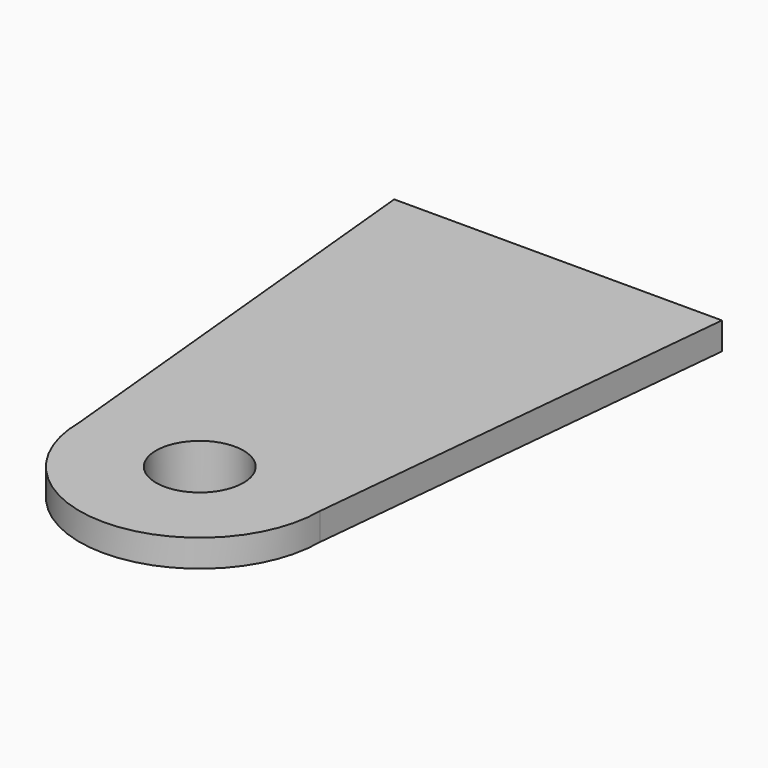
from build123d import *

# Parameters (mm, degrees)
F0_R     = 110
F1_DEPTH = 12.5
F3_DEPTH = 25
F4_R     = 67.5
F5_DEPTH = 21
F6_R     = 40
F7_DEPTH = 60


with BuildPart() as f1:
    # F0 (on Top) → F1 (new body, symmetric)
    with BuildSketch(Plane.XY):
        Circle(F0_R)
    extrude(amount=F1_DEPTH, both=True)

    # F2 (on face) → F3 (join)
    with BuildSketch(Plane.XY.offset(12.5)):
        Polygon((-110, 0), (110, 0), (150, 410), (-150, 410), align=None)
    extrude(amount=-F3_DEPTH)

    # F4 (on face) → F5 (join)
    with BuildSketch(Plane(origin=(0, 0, -12.5), x_dir=(1, 0, 0), z_dir=(0, 0, -1))):
        Circle(F4_R)
    extrude(amount=F5_DEPTH)

    # F6 (on face) → F7 (cut)
    with BuildSketch(Plane(origin=(0, 0, -33.5), x_dir=(1, 0, 0), z_dir=(0, 0, -1))):
        Circle(F6_R)
    extrude(amount=-F7_DEPTH, mode=Mode.SUBTRACT)


solid = f1.part
